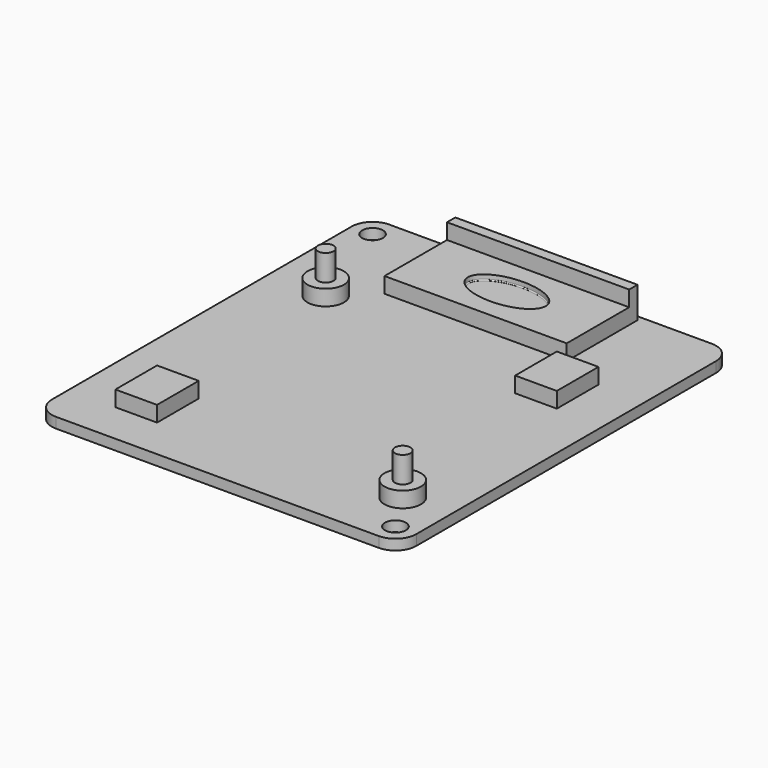
from build123d import *

# Parameters (mm, degrees)
SKETCH_W        = 70
SKETCH_H        = 80
PAD_DEPTH       = 2
SKETCH001_R     = 3.5
PAD001_DEPTH    = 3
SKETCH002_R     = 1.5
PAD002_DEPTH    = 5
SKETCH003_W     = 35
SKETCH003_H     = 15
PAD003_DEPTH    = 3
PAD003_FACE12_W = 35
PAD003_FACE12_H = 3
PAD004_DEPTH    = 2
PAD004_FACE18_W = 2
PAD004_FACE18_H = 35
PAD005_DEPTH    = 3
POCKET_DEPTH    = 1
FILLET_R        = 0.2
FILLET001_R     = 4
SKETCH005_R     = 2
HOLE_DEPTH      = 25
SKETCH006_W     = 8
SKETCH006_H     = 10
PAD006_DEPTH    = 3


with BuildPart() as part:
    # Sketch → Pad (new body)
    with BuildSketch(Plane.XY):
        with Locations((35, 40)):
            Rectangle(SKETCH_W, SKETCH_H)
    extrude(amount=PAD_DEPTH)

    # Sketch001 (on Face6 of Pad) → Pad001 (join)
    with BuildSketch(Plane.XY.offset(2)):
        with Locations((11, 56)):
            Circle(SKETCH001_R)
        with Locations((61, 12)):
            Circle(SKETCH001_R)
    extrude(amount=PAD001_DEPTH)

    # Sketch002 (on Face10 of Pad001) → Pad002 (join)
    with BuildSketch(Plane.XY.offset(5)):
        with Locations((11, 56)):
            Circle(SKETCH002_R)
        with Locations((61, 12)):
            Circle(SKETCH002_R)
    extrude(amount=PAD002_DEPTH)

    # Sketch003 (on Face5 of Pad002) → Pad003 (join)
    with BuildSketch(Plane.XY.offset(2)):
        with Locations((35, 69.5)):
            Rectangle(SKETCH003_W, SKETCH003_H)
    extrude(amount=PAD003_DEPTH)

    # Pad003 Face12 → Pad004 (add)
    with BuildSketch(Plane(origin=(35, 77, 3.5), x_dir=(1, 0, 0), z_dir=(0, 1, 0))):
        Rectangle(PAD003_FACE12_W, PAD003_FACE12_H)
    extrude(amount=PAD004_DEPTH)

    # Pad004 Face18 → Pad005 (add)
    with BuildSketch(Plane(origin=(35, 78, 5), x_dir=(0, 1, 0), z_dir=(0, 0, 1))):
        Rectangle(PAD004_FACE18_W, PAD004_FACE18_H)
    extrude(amount=PAD005_DEPTH)

    # Sketch004 (on Face17 of Pad005) → Pocket (cut)
    with BuildSketch(Plane.XY.offset(5)):
        with BuildLine():
            add(Edge.make_bspline(
                [(42.5, 69.5), (42.5, 76.428203), (31.25, 72.964102), (20, 69.5), (31.25, 66.035898), (42.5, 62.571797), (42.5, 69.5)],
                knots=[0, 0, 0, 2.094395, 2.094395, 4.18879, 4.18879, 6.283185, 6.283185, 6.283185], degree=2, weights=[1, 0.5, 1, 0.5, 1, 0.5, 1]))
        make_face()
    extrude(amount=-POCKET_DEPTH, mode=Mode.SUBTRACT)

    # Fillet
    fillet_edges = [part.edges().sort_by_distance(p)[0] for p in [
        (27.500079, 69.481686, 4),
    ]]
    fillet(fillet_edges, radius=FILLET_R)

    # Fillet001
    fillet001_edges = [part.edges().sort_by_distance(p)[0] for p in [
        (0, 0, 1),
        (70, 0, 1),
        (70, 80, 1),
        (0, 80, 1),
    ]]
    fillet(fillet001_edges, radius=FILLET001_R)

    # Sketch005 (on Face1 of Fillet001) → Hole (cut)
    with BuildSketch(Plane.XY.offset(2)):
        with Locations((4, 76)):
            Circle(SKETCH005_R)
        with Locations((66, 4)):
            Circle(SKETCH005_R)
    extrude(amount=-HOLE_DEPTH, mode=Mode.SUBTRACT)

    # Sketch006 (on Face1 of Hole) → Pad006 (join)
    with BuildSketch(Plane.XY.offset(2)):
        with Locations((57, 54)):
            Rectangle(SKETCH006_W, SKETCH006_H)
        with Locations((13, 13)):
            Rectangle(SKETCH006_W, SKETCH006_H)
    extrude(amount=PAD006_DEPTH)


solid = part.part
